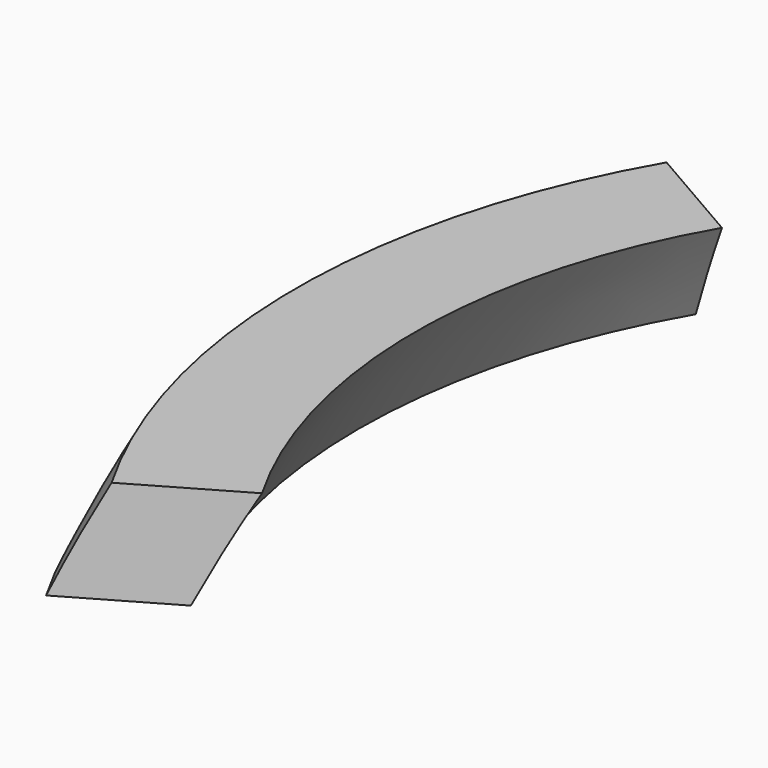
from build123d import *

# Parameters (mm, degrees)
F1_ANGLE_BACK = 30
F1_ANGLE      = 60


with BuildPart() as f1:
    # F0 (on Front) → F1 (revolve)
    with BuildSketch(Plane.XZ, mode=Mode.PRIVATE) as f1_sk:
        with BuildLine():
            add(Edge.make_bspline(
                [(-1023.328218776, 1160.4922653193), (-1050.7332203892, 1110.5595368516), (-1076.2487623673, 1059.6172179521), (-1099.6887199782, 1008.0922653193)],
                knots=[0.3018174881, 0.3018174881, 0.3018174881, 0.3018174881, 0.3364637021, 0.3364637021, 0.3364637021, 0.3364637021], degree=3))
            Line((-1099.6887199782, 1008.0922653193), (-930.9359849962, 1008.0922653193))
            add(Edge.make_bspline(
                [(-930.9359849962, 1008.0922653193), (-926.6509509397, 1016.7639519517), (-900.9142471882, 1068.0191768651), (-872.9091034464, 1118.9021894984), (-848.1202588462, 1160.4922653193)],
                knots=[0.7376984774, 0.7376984774, 0.7376984774, 0.7376984774, 0.743550413, 0.7723279874, 0.7723279874, 0.7723279874, 0.7723279874], degree=3))
            Line((-848.1202588462, 1160.4922653193), (-1023.328218776, 1160.4922653193))
        make_face()
    revolve(f1_sk.sketch.rotate(Axis((0, 0, 1876.9995654606), (0, 0, -1)), -F1_ANGLE_BACK), axis=Axis((0, 0, 1876.9995654606), (0, 0, -1)), revolution_arc=F1_ANGLE)


solid = f1.part
